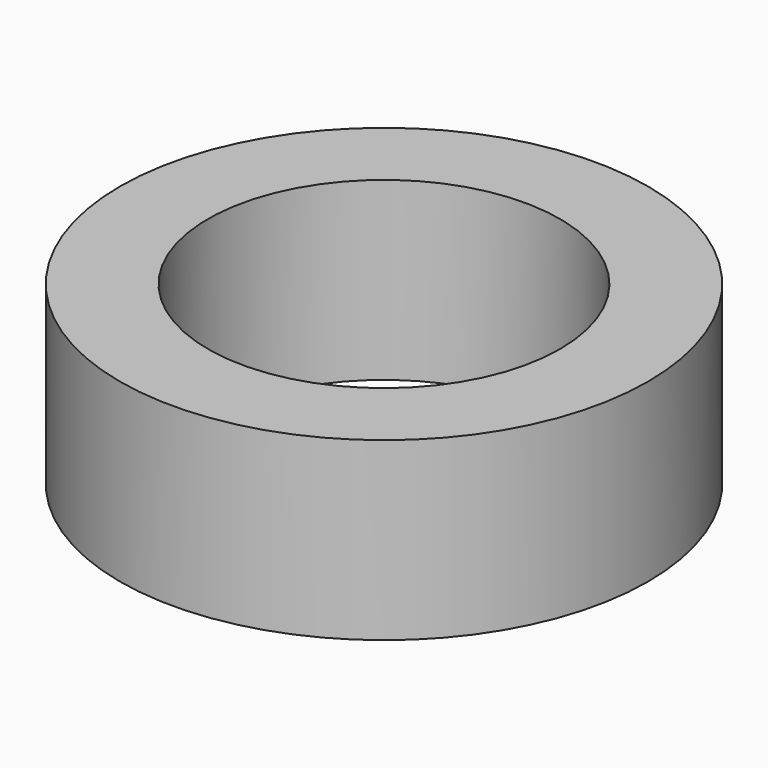
from build123d import *

# Parameters (mm, degrees)
SKETCH_R   = 4.5
SKETCH_R_2 = 3
PAD_DEPTH  = 3


with BuildPart() as part:
    # Sketch → Pad (new body)
    with BuildSketch(Plane.XY):
        Circle(SKETCH_R)
        Circle(SKETCH_R_2, mode=Mode.SUBTRACT)
    extrude(amount=PAD_DEPTH)


solid = part.part
